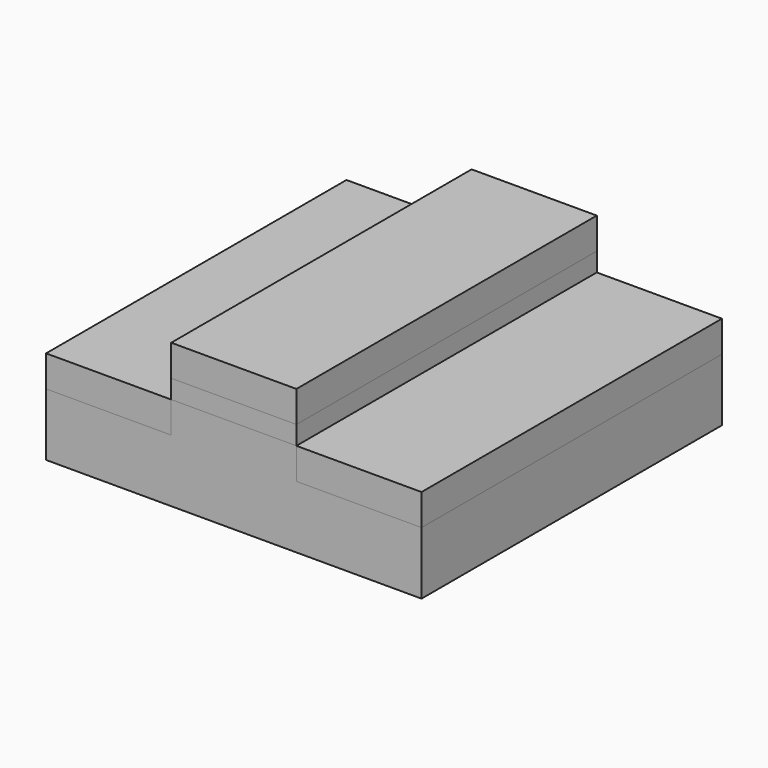
from build123d import *

# Parameters (mm, degrees)
PAD_DEPTH    = 30
SKETCH001_W  = 20
SKETCH001_H  = 60
PAD001_DEPTH = 5
SKETCH002_W  = 20
SKETCH002_H  = 60
PAD002_DEPTH = 3
SKETCH003_W  = 20
SKETCH003_H  = 60
PAD003_DEPTH = 5


with BuildPart() as obj1:
    # Sketch → Pad (new body, symmetric)
    with BuildSketch(Plane.XZ):
        Polygon((-30, 0), (-30, 10), (-10, 10), (-10, 15), (10, 15), (10, 10), (30, 10), (30, 0), align=None)
    extrude(amount=PAD_DEPTH, both=True)


with BuildPart() as obj2:
    # Sketch001 → Pad001 (new body)
    with BuildSketch(Plane.XY.offset(10)):
        with Locations((-20, 0)):
            Rectangle(SKETCH001_W, SKETCH001_H)
        with Locations((20, 0)):
            Rectangle(SKETCH001_W, SKETCH001_H)
    extrude(amount=PAD001_DEPTH)


with BuildPart() as oxide_film:
    # Sketch002 → Pad002 (new body)
    with BuildSketch(Plane.XY.offset(15)):
        Rectangle(SKETCH002_W, SKETCH002_H)
    extrude(amount=PAD002_DEPTH)


with BuildPart() as metal_gate:
    # Sketch003 → Pad003 (new body)
    with BuildSketch(Plane.XY.offset(18)):
        Rectangle(SKETCH003_W, SKETCH003_H)
    extrude(amount=PAD003_DEPTH)


solid = Compound([obj1.part, obj2.part, oxide_film.part, metal_gate.part])
